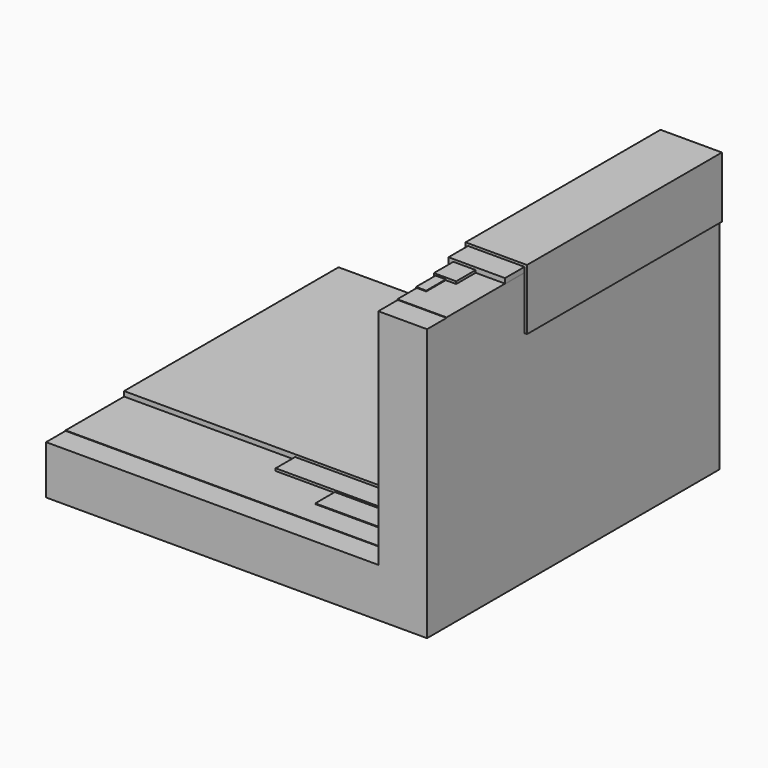
from build123d import *

# Parameters (mm, degrees)
F1_DEPTH = 150
F2_DEPTH = 140
F3_DEPTH = 130
F4_DEPTH = 130
F5_DEPTH = 120
F6_DEPTH = 120
F7_DEPTH = 110
F8_DEPTH = 100


with BuildPart() as f1:
    # F0 (on Front) → F1 (new body)
    with BuildSketch(Plane.XZ):
        Polygon((57.892417, -35.742365), (-78.434123, -35.742365), (-78.434123, -55.742365), (77.892417, -55.742365), (77.892417, 34.090297), (77.892417, 55.890297), (57.892417, 55.890297), align=None)
    extrude(amount=F1_DEPTH)


with BuildPart() as f2:
    # F0 (on Front) → F2 (new body)
    with BuildSketch(Plane.XZ):
        Polygon((-78.434123, -35.542365), (-78.434123, -35.742365), (57.892417, -35.742365), (57.892417, 55.890297), (77.892417, 55.890297), (77.892417, 56.090297), (65.851599, 56.090297), (61.565888, 56.090297), (57.692417, 56.090297), (57.692417, 46.702539), (57.692417, 38.947439), (57.692417, 6.498455), (57.692417, -3.093383), (57.692417, -35.542365), (16.055677, -35.542365), (-8.230039, -35.542365), align=None)
    extrude(amount=F2_DEPTH)


with BuildPart() as f3:
    # F0 (on Front) → F3 (new body)
    with BuildSketch(Plane.XZ):
        Polygon((16.055677, -35.242365), (16.055677, -35.542365), (57.692417, -35.542365), (57.692417, -3.093383), (57.392417, -3.093383), (57.392417, -35.242365), align=None)
    extrude(amount=F3_DEPTH)


with BuildPart() as f4:
    # F0 (on Front) → F4 (new body)
    with BuildSketch(Plane.XZ):
        Polygon((57.692417, 56.090297), (61.565888, 56.090297), (61.565888, 56.390297), (57.392417, 56.390297), (57.392417, 46.702539), (57.692417, 46.702539), align=None)
    extrude(amount=F4_DEPTH)


with BuildPart() as f5:
    # F0 (on Front) → F5 (new body)
    with BuildSketch(Plane.XZ):
        Polygon((61.565888, 56.090297), (65.851599, 56.090297), (65.851599, 57.090297), (56.692417, 57.090297), (56.692417, 38.947439), (57.692417, 38.947439), (57.692417, 46.702539), (57.392417, 46.702539), (57.392417, 56.390297), (61.565888, 56.390297), align=None)
    extrude(amount=F5_DEPTH)


with BuildPart() as f6:
    # F0 (on Front) → F6 (new body)
    with BuildSketch(Plane.XZ):
        Polygon((-8.230039, -34.542365), (-8.230039, -35.542365), (16.055677, -35.542365), (16.055677, -35.242365), (57.392417, -35.242365), (57.392417, -3.093383), (57.692417, -3.093383), (57.692417, 6.498455), (56.692417, 6.498455), (56.692417, -34.542365), align=None)
    extrude(amount=F6_DEPTH)


with BuildPart() as f7:
    # F0 (on Front) → F7 (new body)
    with BuildSketch(Plane.XZ):
        Polygon((-78.434123, -33.542365), (-78.434123, -35.542365), (-8.230039, -35.542365), (-8.230039, -34.542365), (56.692417, -34.542365), (56.692417, 6.498455), (57.692417, 6.498455), (57.692417, 38.947439), (56.692417, 38.947439), (56.692417, 57.090297), (65.851599, 57.090297), (65.851599, 56.090297), (77.892417, 56.090297), (77.892417, 58.090297), (54.692417, 58.090297), (54.692417, 34.090297), (54.692417, -33.542365), align=None)
    extrude(amount=F7_DEPTH)


with BuildPart() as f8:
    # F0 (on Front) → F8 (new body)
    with BuildSketch(Plane.XZ):
        Polygon((77.892417, 55.890297), (77.892417, 34.090297), (78.892417, 34.090297), (78.892417, 59.090297), (53.692417, 59.090297), (53.692417, 34.090297), (54.692417, 34.090297), (54.692417, 58.090297), (77.892417, 58.090297), (77.892417, 56.090297), align=None)
    extrude(amount=F8_DEPTH)


solid = Compound([f1.part, f2.part, f3.part, f4.part, f5.part, f6.part, f7.part, f8.part])
